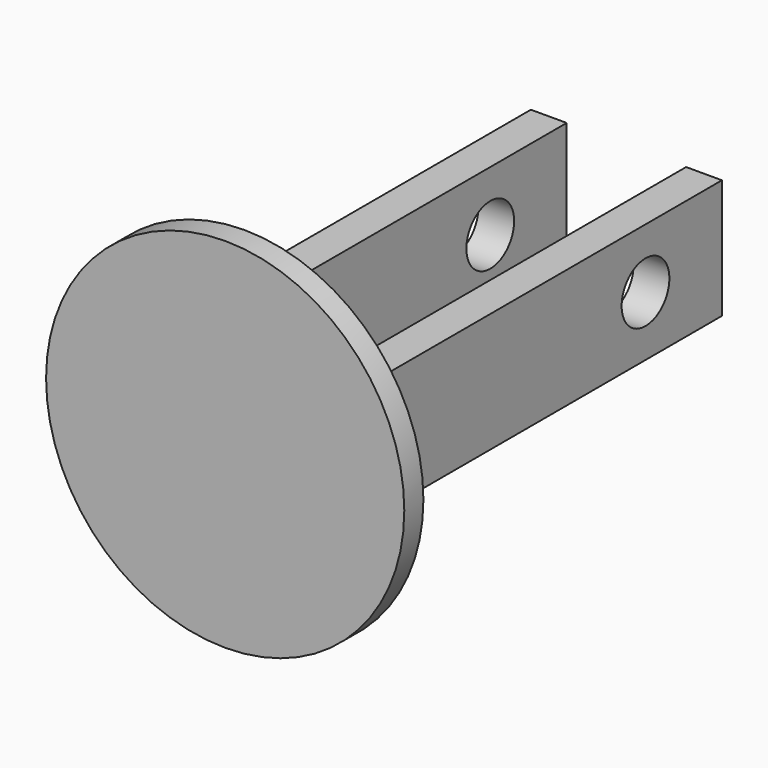
from build123d import *

# Parameters (mm, degrees)
F0_R     = 9.525
F1_DEPTH = 1.27
F2_W     = 1.905
F2_H     = 6.35
F3_DEPTH = 25.4
F4_R     = 1.5875
F5_DEPTH = 14.606


with BuildPart() as f1:
    # F0 (on Front) → F1 (new body)
    with BuildSketch(Plane.XZ):
        Circle(F0_R)
    extrude(amount=F1_DEPTH)

    # F2 (on face) → F3 (join)
    with BuildSketch(Plane(origin=(0, 0, 0), x_dir=(-1, 0, 0), z_dir=(0, 1, 0))):
        with Locations((-4.1275, 0)):
            Rectangle(F2_W, F2_H)
        with Locations((4.1275, 0)):
            Rectangle(F2_W, F2_H)
    extrude(amount=F3_DEPTH)

    # F4 (on face) → F5 (cut, through all)
    with BuildSketch(Plane.YZ.offset(5.08)):
        with Locations((20.32, 0)):
            Circle(F4_R)
    extrude(amount=-F5_DEPTH, mode=Mode.SUBTRACT)


solid = f1.part
